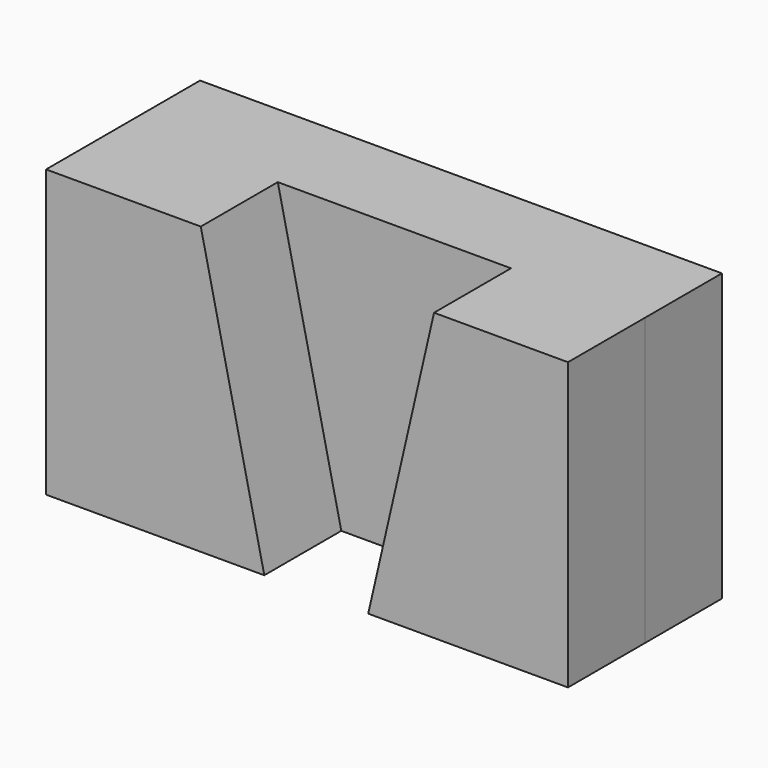
from build123d import *

# Parameters (mm, degrees)
F0_W     = 137.769602
F0_H     = 75.590402
F1_DEPTH = 25.4
F2_W     = 40.843198
F2_H     = 75.590402
F2_W_2   = 35.356801
F3_DEPTH = 25.4


with BuildPart() as f1:
    # F0 (on Front) → F1 (new body)
    with BuildSketch(Plane.XZ):
        with Locations((2.743203, -6.553199)):
            Rectangle(F0_W, F0_H)
    extrude(amount=F1_DEPTH)

    # F2 (on face) → F3 (join)
    with BuildSketch(Plane.XZ.offset(25.4)):
        with Locations((-45.719999, -6.553199)):
            Rectangle(F2_W, F2_H)
        Polygon((-8.534401, -44.3484), (-25.2984, 31.242002), (-25.2984, -44.3484), align=None)
        with Locations((53.949603, -6.553199)):
            Rectangle(F2_W_2, F2_H)
        Polygon((36.271203, -44.3484), (36.271203, 31.242002), (18.8976, -44.3484), align=None)
    extrude(amount=F3_DEPTH)


solid = f1.part
